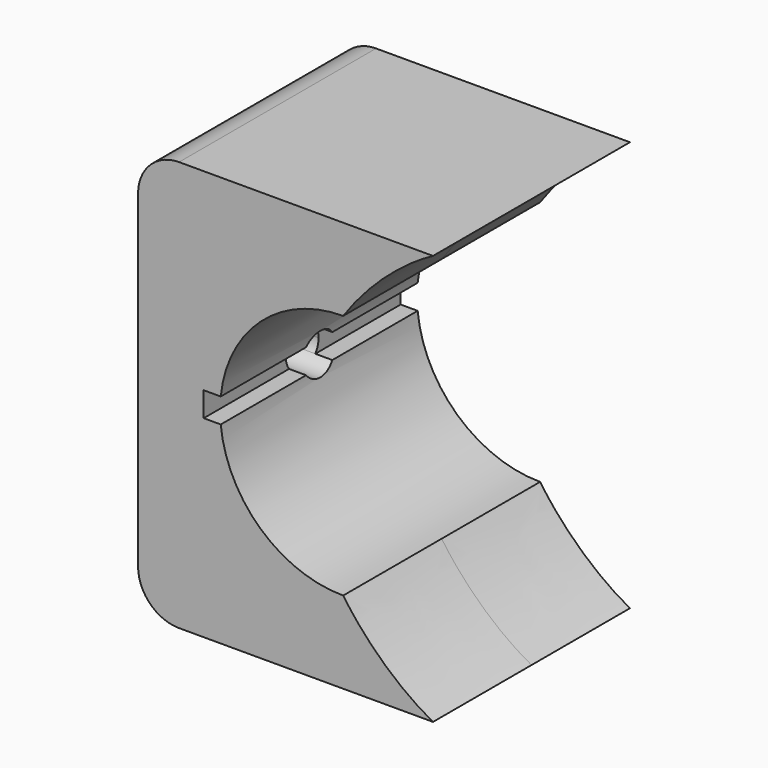
from build123d import *

# Parameters (mm, degrees)
F1_DEPTH      = 15
F1_DEPTH_BACK = 15
F2_R          = 5
F4_DEPTH      = 25.0010001
F5_SIZE       = 1
F6_DEPTH      = 17


with BuildPart() as f1:
    # F0 (on Front) → F1 (new body, two sides)
    with BuildSketch(Plane.XZ) as f1_sk:
        with BuildLine():
            Line((10.947347623, 25), (-25, 25))
            Line((-25, 25), (-25, -25))
            Line((-25, -25), (10.947347623, -25))
            add(Edge.make_bspline(
                [(10.947347623, -25), (6.7776464895, -22.7393775974), (2.7889229832, -19.0392534951), (0, -15)],
                knots=[0.6583166498, 0.6583166498, 0.6583166498, 0.6583166498, 0.7610943584, 0.7610943584, 0.7610943584, 0.7610943584], degree=3))
            ThreePointArc((0, -15), (-15, 0), (0, 15))
            add(Edge.make_bspline(
                [(0, 15), (2.7889229832, 19.0392534951), (6.7776464895, 22.7393775974), (10.947347623, 25)],
                knots=[0, 0, 0, 0, 0.1027777086, 0.1027777086, 0.1027777086, 0.1027777086], degree=3))
        make_face()
    extrude(amount=-F1_DEPTH)
    extrude(f1_sk.sketch, amount=F1_DEPTH_BACK)

    # F2
    f2_edges = [f1.edges().sort_by_distance(p)[0] for p in [
        (-25, 0, 25),
        (-25, 0, -25),
    ]]
    fillet(f2_edges, radius=F2_R)

    # F3 (on Right) → F4 (cut, through all)
    with BuildSketch(Plane.YZ):
        with BuildLine():
            ThreePointArc((2, -1.5), (2.3717082451, -0.790569415), (2.5, 0))
            ThreePointArc((2.5, 0), (2.3717082451, 0.790569415), (2, 1.5))
            Line((2, 1.5), (-2, 1.5))
            ThreePointArc((-2, 1.5), (-2.5, 0), (-2, -1.5))
            Line((-2, -1.5), (2, -1.5))
        make_face()
        with BuildLine():
            ThreePointArc((-2, -1.5), (0, -2.5), (2, -1.5))
            Line((2, -1.5), (-2, -1.5))
        make_face()
        with BuildLine():
            Line((-2, 1.5), (2, 1.5))
            ThreePointArc((2, 1.5), (0, 2.5), (-2, 1.5))
        make_face()
    extrude(amount=-F4_DEPTH, mode=Mode.SUBTRACT)

    # F5
    f5_edges = [f1.edges().sort_by_distance(p)[0] for p in [
        (-25, -2, -1.5),
    ]]
    chamfer(f5_edges, length=F5_SIZE)

    # F3 (on Right) → F6 (cut)
    with BuildSketch(Plane.YZ):
        with BuildLine():
            ThreePointArc((2, 1.5), (2.3717082451, 0.790569415), (2.5, 0))
            ThreePointArc((2.5, 0), (2.3717082451, -0.790569415), (2, -1.5))
            Line((2, -1.5), (15, -1.5))
            Line((15, -1.5), (15, 1.5))
            Line((15, 1.5), (2, 1.5))
        make_face()
        with BuildLine():
            ThreePointArc((-2, -1.5), (-2.5, 0), (-2, 1.5))
            Line((-2, 1.5), (-15, 1.5))
            Line((-15, 1.5), (-15, -1.5))
            Line((-15, -1.5), (-2, -1.5))
        make_face()
    extrude(amount=-F6_DEPTH, mode=Mode.SUBTRACT)


solid = f1.part
